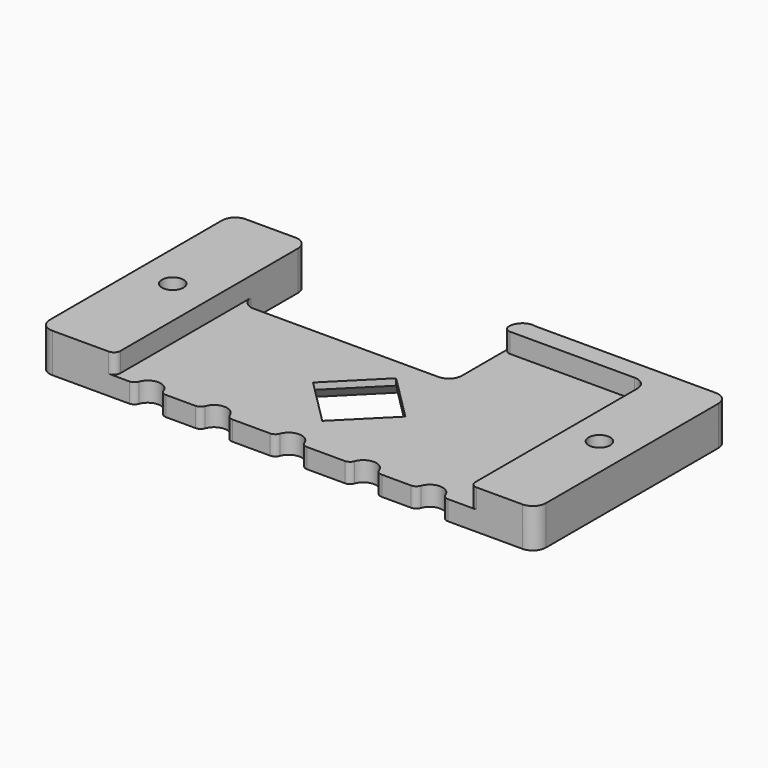
from build123d import *

# Parameters (mm, degrees)
PAD_DEPTH       = 6
POCKET_DEPTH    = 3
FILLET_R        = 1
CHAMFER_SIZE    = 2
SKETCH002_R     = 1.65
POCKET001_DEPTH = 6.001
POCKET002_DEPTH = 2.5


with BuildPart() as part:
    # Sketch → Pad (new body)
    with BuildSketch(Plane.XY):
        with BuildLine():
            Line((5.733466, 35.070521), (5.733466, 26))
            ThreePointArc((3.733466, 24), (5.14768, 24.585786), (5.733466, 26))
            Line((3.733466, 24), (-24.565653, 24))
            ThreePointArc((-26.565653, 26), (-25.979867, 24.585786), (-24.565653, 24))
            Line((-26.565653, 26), (-26.565653, 35))
            ThreePointArc((-26.565653, 35), (-27.15144, 36.414214), (-28.565653, 37))
            Line((-36.2, 37), (-28.565653, 37))
            ThreePointArc((-36.2, 37), (-37.614214, 36.414214), (-38.2, 35))
            Line((-38.2, 35), (-38.2, 2))
            ThreePointArc((-38.2, 2), (-37.614214, 0.585786), (-36.2, 0))
            Line((-25.8, 0), (-36.2, 0))
            Line((-25.8, 0), (-24.418427, 0))
            ThreePointArc((-24.418427, 0), (-23.841077, 0.183503), (-23.475618, 0.666667))
            ThreePointArc((-19.704382, 0.666667), (-21.59, 2), (-23.475618, 0.666667))
            ThreePointArc((-19.704382, 0.666667), (-19.338923, 0.183503), (-18.761573, 0))
            Line((-18.761573, 0), (-14.258427, 0))
            ThreePointArc((-14.258427, 0), (-13.681077, 0.183503), (-13.315618, 0.666667))
            ThreePointArc((-9.544382, 0.666667), (-11.43, 2), (-13.315618, 0.666667))
            ThreePointArc((-9.544382, 0.666667), (-9.178923, 0.183503), (-8.601573, 0))
            Line((-8.601573, 0), (-2.828427, 0))
            ThreePointArc((-2.828427, 0), (-2.251077, 0.183503), (-1.885618, 0.666667))
            ThreePointArc((1.885618, 0.666667), (0, 2), (-1.885618, 0.666667))
            ThreePointArc((1.885618, 0.666667), (2.251077, 0.183503), (2.828427, 0))
            Line((2.828427, 0), (8.601573, 0))
            ThreePointArc((8.601573, 0), (9.178923, 0.183503), (9.544382, 0.666667))
            ThreePointArc((13.315618, 0.666667), (11.43, 2), (9.544382, 0.666667))
            ThreePointArc((13.315618, 0.666667), (13.681077, 0.183503), (14.258427, 0))
            Line((14.258427, 0), (18.761573, 0))
            ThreePointArc((18.761573, 0), (19.338923, 0.183503), (19.704382, 0.666667))
            ThreePointArc((23.475618, 0.666667), (21.59, 2), (19.704382, 0.666667))
            ThreePointArc((23.475618, 0.666667), (23.841077, 0.183503), (24.418427, 0))
            Line((24.418427, 0), (25.8, 0))
            Line((25.8, 0), (35.8, 0))
            ThreePointArc((35.8, 0), (37.214214, 0.585786), (37.8, 2))
            Line((37.8, 35), (37.8, 2))
            ThreePointArc((37.8, 35), (37.214214, 36.414214), (35.8, 37))
            Line((8.25988, 37), (35.8, 37))
            ThreePointArc((8.25988, 37), (6.519553, 36.659991), (5.733466, 35.070521))
        make_face()
        Polygon((7.071068, 13.5), (0, 20.571068), (-7.071068, 13.5), (0, 6.428932), align=None, mode=Mode.SUBTRACT)
    extrude(amount=PAD_DEPTH)

    # Sketch001 (on Face40 of Pad) → Pocket (cut)
    with BuildSketch(Plane.XY.offset(6)):
        with BuildLine():
            Line((-26.565653, 34), (25.8, 34))
            ThreePointArc((27.8, 32), (27.214214, 33.414214), (25.8, 34))
            Line((27.8, 32), (27.8, -3.158395))
            Line((27.8, -3.158395), (-26.565653, -3.158395))
            Line((-26.565653, -3.158395), (-26.565653, 34))
        make_face()
    extrude(amount=-POCKET_DEPTH, mode=Mode.SUBTRACT)

    # Fillet
    fillet_edges = [part.edges().sort_by_distance(p)[0] for p in [
        (-26.565653, 0, 4.5),
        (27.8, 0, 4.5),
        (5.733466, 34, 4.5),
    ]]
    fillet(fillet_edges, radius=FILLET_R)

    # Chamfer
    chamfer_edges = [part.edges().sort_by_distance(p)[0] for p in [
        (3.535534, 9.964466, 0),
        (3.535534, 17.035534, 0),
        (-3.535534, 17.035534, 0),
        (-3.535534, 9.964466, 0),
    ]]
    chamfer(chamfer_edges, length=CHAMFER_SIZE)

    # Sketch002 (on Face49 of Chamfer) → Pocket001 (cut, through all)
    with BuildSketch(Plane.XY.offset(6)):
        with Locations((-32.57, 18.5)):
            Circle(SKETCH002_R)
        with Locations((32.8, 18.5)):
            Circle(SKETCH002_R)
    extrude(amount=-POCKET001_DEPTH, mode=Mode.SUBTRACT)

    # Sketch003 (on Face1 of Pocket001) → Pocket002 (cut)
    with BuildSketch(Plane(origin=(0, 0, 0), x_dir=(1, 0, 0), z_dir=(0, 0, -1))):
        Polygon((-29.928623, -20.025), (-29.928623, -16.975), (-32.57, -15.45), (-35.211377, -16.975), (-35.211377, -20.025), (-32.57, -21.55), align=None)
        Polygon((35.441377, -20.025), (35.441377, -16.975), (32.8, -15.45), (30.158623, -16.975), (30.158623, -20.025), (32.8, -21.55), align=None)
    extrude(amount=-POCKET002_DEPTH, mode=Mode.SUBTRACT)


solid = part.part
